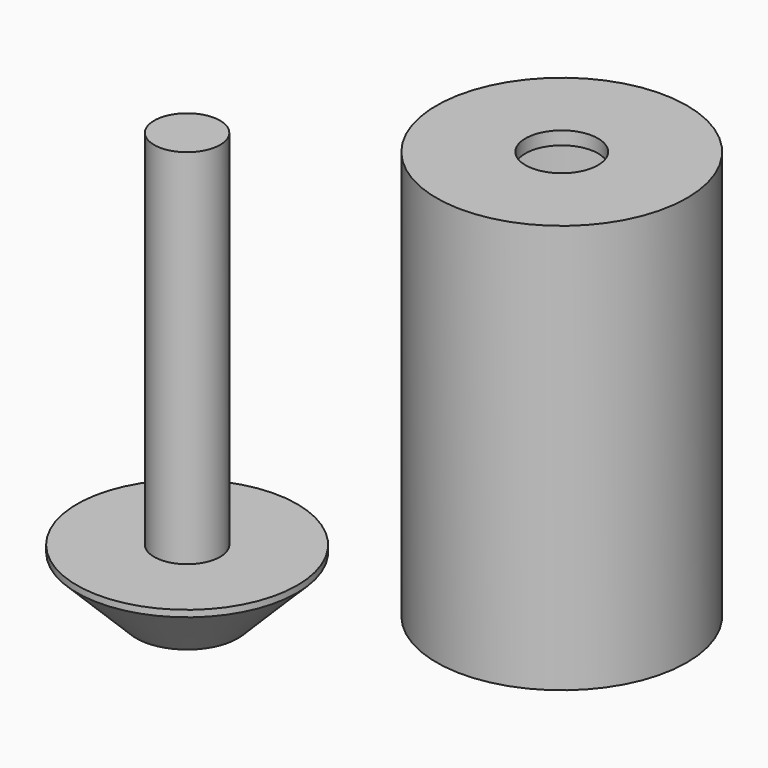
from build123d import *

# Parameters (mm, degrees)
F0_R     = 24.13
F0_R_2   = 21.59
F1_DEPTH = 76.2
F2_R     = 21.209
F3_DEPTH = 12.7
F4_SIZE  = 11.43
F5_R     = 6.35
F6_DEPTH = 69.85
F7_R     = 24.13
F7_R_2   = 6.985
F8_DEPTH = 2.54


with BuildPart() as f1:
    # F0 (on Top) → F1 (new body)
    with BuildSketch(Plane.XY):
        Circle(F0_R)
        Circle(F0_R_2, mode=Mode.SUBTRACT)
    extrude(amount=F1_DEPTH)

    # F7 (on face) → F8 (join)
    with BuildSketch(Plane.XY.offset(76.2)):
        Circle(F7_R)
        Circle(F7_R_2, mode=Mode.SUBTRACT)
    extrude(amount=F8_DEPTH)


with BuildPart() as f3:
    # F2 (on Top) → F3 (new body)
    with BuildSketch(Plane.XY):
        with Locations((-43.300729, -36.064915)):
            Circle(F2_R)
    extrude(amount=F3_DEPTH)

    # F4
    f4_edges = [f3.edges().sort_by_distance(p)[0] for p in [
        (-64.509729, -36.064915, 0),
    ]]
    chamfer(f4_edges, length=F4_SIZE)

    # F5 (on face) → F6 (join)
    with BuildSketch(Plane.XY.offset(12.7)):
        with Locations((-43.300729, -36.064915)):
            Circle(F5_R)
    extrude(amount=F6_DEPTH)


solid = Compound([f1.part, f3.part])
